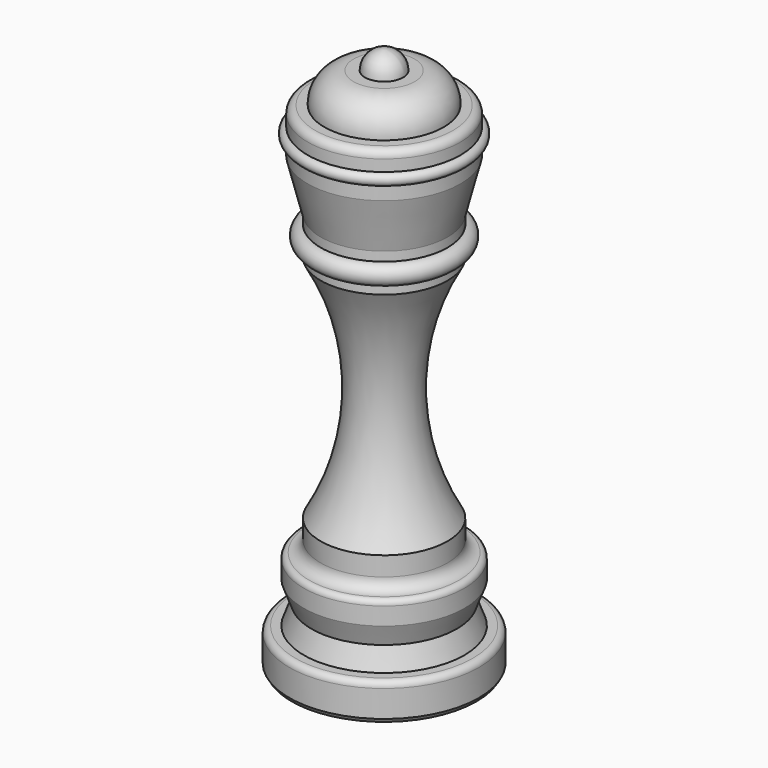
from build123d import *


with BuildPart() as f1:
    # F0 (on Front) → F1 (revolve)
    with BuildSketch(Plane.XZ):
        with BuildLine():
            Line((5.4e-05, -3.730074), (15.367054, -3.730074))
            Line((15.367054, -3.730074), (15.748054, -3.095074))
            Line((15.748054, -3.095074), (15.748054, 1.349926))
            ThreePointArc((15.748054, 1.349926), (15.450474, 2.068347), (14.732054, 2.365926))
            Line((14.732054, 2.365926), (13.335, 2.365926))
            Line((13.335, 2.365926), (12.065, 5.794926))
            Line((12.065, 5.794926), (13.335, 9.223926))
            Line((13.335, 9.223926), (13.335, 12.144926))
            ThreePointArc((13.335, 12.144926), (13.074618, 12.773544), (12.446, 13.033926))
            ThreePointArc((12.446, 13.033926), (11.098888, 13.591848), (10.540886, 14.938926))
            Line((10.540886, 14.938926), (10.540886, 18.113926))
            ThreePointArc((10.540886, 18.113926), (5.436454, 37.163926), (10.540886, 56.213926))
            Line((10.540886, 56.213926), (10.540886, 57.737926))
            ThreePointArc((10.540886, 57.737926), (12.224567, 59.388926), (10.540886, 61.039926))
            Line((10.540886, 61.039926), (10.540886, 62.563926))
            Line((10.540886, 62.563926), (12.7, 71.072926))
            Line((12.7, 71.072926), (12.7, 73.358926))
            ThreePointArc((12.7, 73.358926), (13.6525, 74.311426), (12.7, 75.263926))
            Line((12.7, 75.263926), (12.7, 77.168926))
            ThreePointArc((12.7, 77.168926), (12.328011, 78.066967), (11.429959, 78.438926))
            Line((11.429959, 78.438926), (9.905959, 78.438926))
            ThreePointArc((9.905959, 78.438926), (8.583406, 82.014858), (5.079949, 83.518926))
            Line((5.079949, 83.518926), (3.175054, 83.518926))
            ThreePointArc((3.175054, 83.518926), (2.245118, 85.76399), (5.4e-05, 86.693926))
            Line((5.4e-05, 86.693926), (5.4e-05, -3.730074))
        make_face()
    revolve(axis=Axis((5.4e-05, 0, 41.481926), (0, 0, -1)))


solid = f1.part
